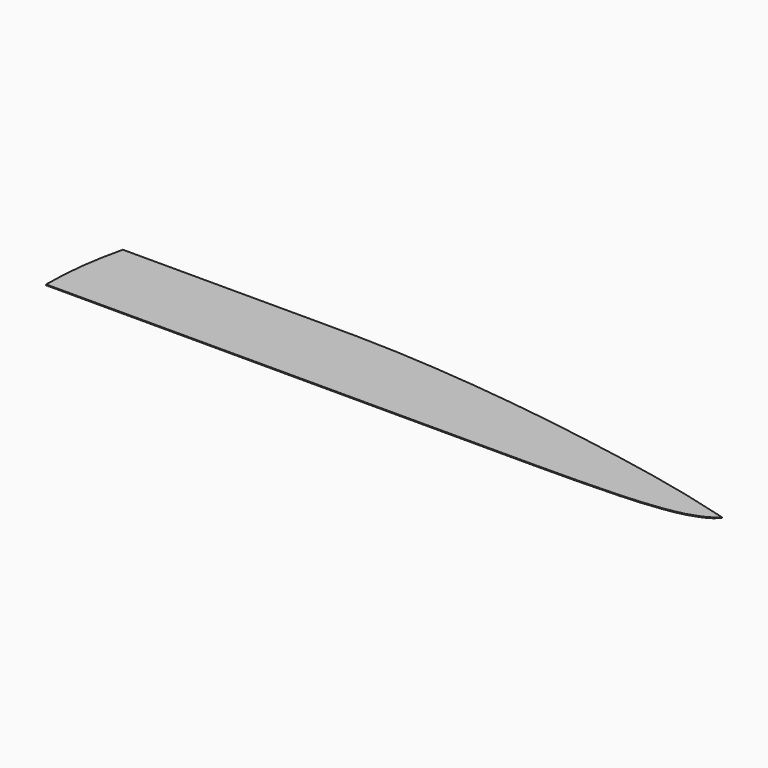
from build123d import *

# Parameters (mm, degrees)
F1_DEPTH = 4


with BuildPart() as f1:
    # F0 (on Top) → F1 (new body)
    with BuildSketch(Plane.XY):
        with BuildLine():
            ThreePointArc((50, 408), (12.546583, 205.526154), (0, 0))
            Line((0, 0), (1000, 0))
            Line((1000, 0), (1000, 408))
            Line((1000, 408), (50, 408))
        make_face()
        Polygon((1000, 408), (1000, 0), (1200, 0), (1200, 407), align=None)
        Polygon((1200, 407), (1200, 0), (1400, 0), (1400, 401), align=None)
        Polygon((1400, 401), (1400, 0), (1600, 0), (1600, 76), (1600, 388), align=None)
        Polygon((1600, 76), (1600, 0), (1800, 0), (1800, 370), (1600, 388), align=None)
        Polygon((1800, 370), (1800, 0), (2000, 0), (2000, 347), align=None)
        Polygon((2000, 347), (2000, 0), (2200, 0), (2200, 320), align=None)
        Polygon((2200, 320), (2200, 0), (2400, 0), (2400, 288), align=None)
        Polygon((2400, 288), (2400, 0), (2600, 2), (2600, 253), align=None)
        Polygon((2600, 253), (2600, 2), (2800, 8), (2800, 214), align=None)
        Polygon((2800, 214), (2800, 8), (2900, 14), (3000, 25), (3000, 169), align=None)
        Polygon((3200, 116), (3000, 169), (3000, 25), (3050, 33), (3100, 44), (3150, 61), (3175, 72), (3200, 87), align=None)
        Polygon((3225, 109), (3200, 116), (3200, 87), align=None)
    extrude(amount=F1_DEPTH)


solid = f1.part
